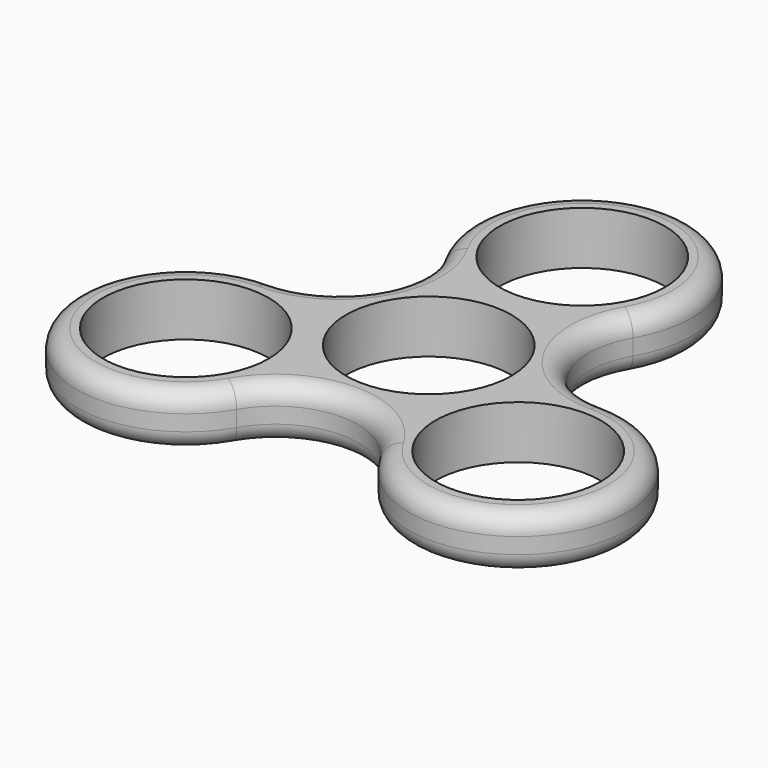
from build123d import *

# Parameters (mm, degrees)
F0_R     = 7.9375
F1_DEPTH = 5.08
F2_R     = 1.778


with BuildPart() as f1:
    # F0 (on Top) → F1 (new body)
    with BuildSketch(Plane.XY):
        with BuildLine():
            ThreePointArc((15.947858, 1.27), (9.073781, 5.23875), (9.073781, 13.17625))
            ThreePointArc((9.073781, 13.17625), (0, 28.8925), (-9.073781, 13.17625))
            ThreePointArc((-9.073781, 13.17625), (-9.073781, 5.23875), (-15.947858, 1.27))
            ThreePointArc((-15.947858, 1.27), (-25.021639, -14.44625), (-6.874077, -14.44625))
            ThreePointArc((-6.874077, -14.44625), (0, -10.4775), (6.874077, -14.44625))
            ThreePointArc((6.874077, -14.44625), (25.021639, -14.44625), (15.947858, 1.27))
        make_face()
        with Locations((-15.947858, -9.2075)):
            Circle(F0_R, mode=Mode.SUBTRACT)
        with Locations((15.947858, -9.2075)):
            Circle(F0_R, mode=Mode.SUBTRACT)
        Circle(F0_R, mode=Mode.SUBTRACT)
        with Locations((0, 18.415)):
            Circle(F0_R, mode=Mode.SUBTRACT)
    extrude(amount=F1_DEPTH)

    # F2
    f2_edges = [f1.edges().sort_by_distance(p)[0] for p in [
        (-9.073781, 5.23875, 5.08),
        (0, 28.8925, 0),
    ]]
    fillet(f2_edges, radius=F2_R)


solid = f1.part
